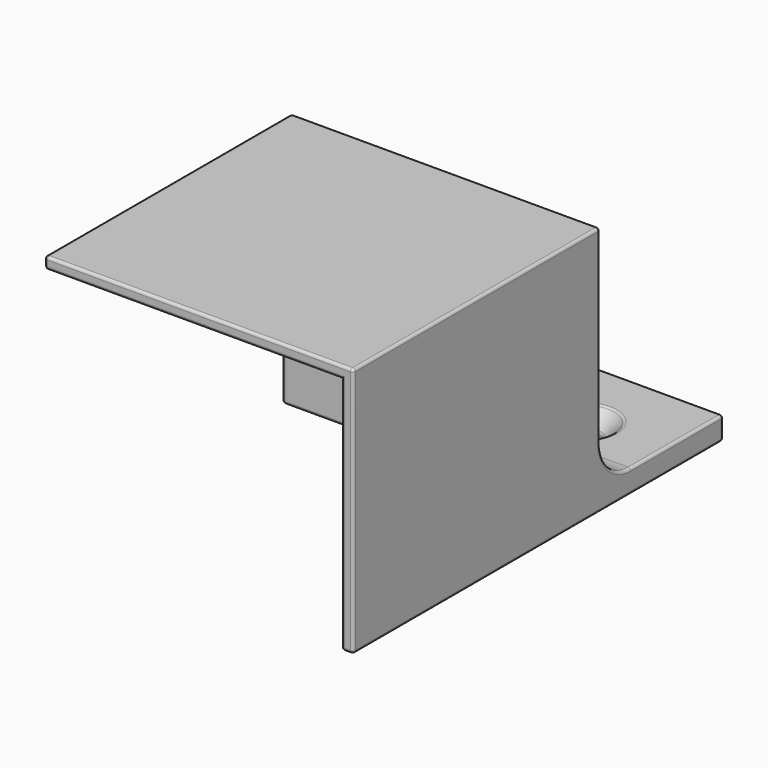
from build123d import *

# Parameters (mm, degrees)
SKETCH_W        = 40
SKETCH_H        = 40
PAD_DEPTH       = 32.5
SKETCH001_W     = 38.5
SKETCH001_H     = 38.5
POCKET_DEPTH    = 31
SKETCH002_W     = 40
SKETCH002_H     = 3
PAD001_DEPTH    = 20
SKETCH003_R     = 2
POCKET001_DEPTH = 5
FILLET_R        = 5
FILLET001_R     = 0.35
CHAMFER_SIZE    = 2
FILLET002_R     = 0.5


with BuildPart() as part:
    # Sketch → Pad (new body)
    with BuildSketch(Plane.XY):
        with Locations((20, 20)):
            Rectangle(SKETCH_W, SKETCH_H)
    extrude(amount=PAD_DEPTH)

    # Sketch001 (on Face5 of Pad) → Pocket (cut)
    with BuildSketch(Plane(origin=(0, 0, 0), x_dir=(1, 0, 0), z_dir=(0, 0, -1))):
        with Locations((19.25, -19.25)):
            Rectangle(SKETCH001_W, SKETCH001_H)
    extrude(amount=-POCKET_DEPTH, mode=Mode.SUBTRACT)

    # Sketch002 (on Face9 of Pocket) → Pad001 (join)
    with BuildSketch(Plane(origin=(0, 40, 0), x_dir=(-1, 0, 0), z_dir=(0, 1, 0))):
        with Locations((-20, 1.5)):
            Rectangle(SKETCH002_W, SKETCH002_H)
    extrude(amount=PAD001_DEPTH)

    # Sketch003 (on Face14 of Pad001) → Pocket001 (cut)
    with BuildSketch(Plane.XY.offset(3)):
        with Locations((10, 50)):
            Circle(SKETCH003_R)
        with Locations((30, 50)):
            Circle(SKETCH003_R)
    extrude(amount=-POCKET001_DEPTH, mode=Mode.SUBTRACT)

    # Fillet
    fillet_edges = [part.edges().sort_by_distance(p)[0] for p in [
        (20, 40, 3),
    ]]
    fillet(fillet_edges, radius=FILLET_R)

    # Fillet001
    fillet001_edges = [part.edges().sort_by_distance(p)[0] for p in [
        (20, 60, 3),
        (40, 52.5, 3),
        (20, 0, 32.5),
        (40, 20, 32.5),
        (20, 40, 32.5),
        (0, 20, 32.5),
        (0, 52.5, 3),
        (0, 50, 0),
        (0, 38.5, 15.5),
        (0, 19.25, 31),
        (0, 0, 31.75),
        (19.25, 0, 31),
        (38.5, 0, 15.5),
        (40, 0, 16.25),
        (39.25, 0, 0),
        (38.5, 19.25, 0),
        (40, 20, 0),
        (40, 60, 1.5),
        (20, 60, 0),
        (19.25, 38.5, 0),
        (28, 50, 0),
        (8, 50, 0),
    ]]
    fillet(fillet001_edges, radius=FILLET001_R)

    # Chamfer
    chamfer_edges = [part.edges().sort_by_distance(p)[0] for p in [
        (28, 50, 3),
        (8, 50, 3),
    ]]
    chamfer(chamfer_edges, length=CHAMFER_SIZE)

    # Fillet002
    fillet002_edges = [part.edges().sort_by_distance(p)[0] for p in [
        (26, 50, 3),
        (6, 50, 3),
        (8, 50, 1),
        (28, 50, 1),
    ]]
    fillet(fillet002_edges, radius=FILLET002_R)


solid = part.part
